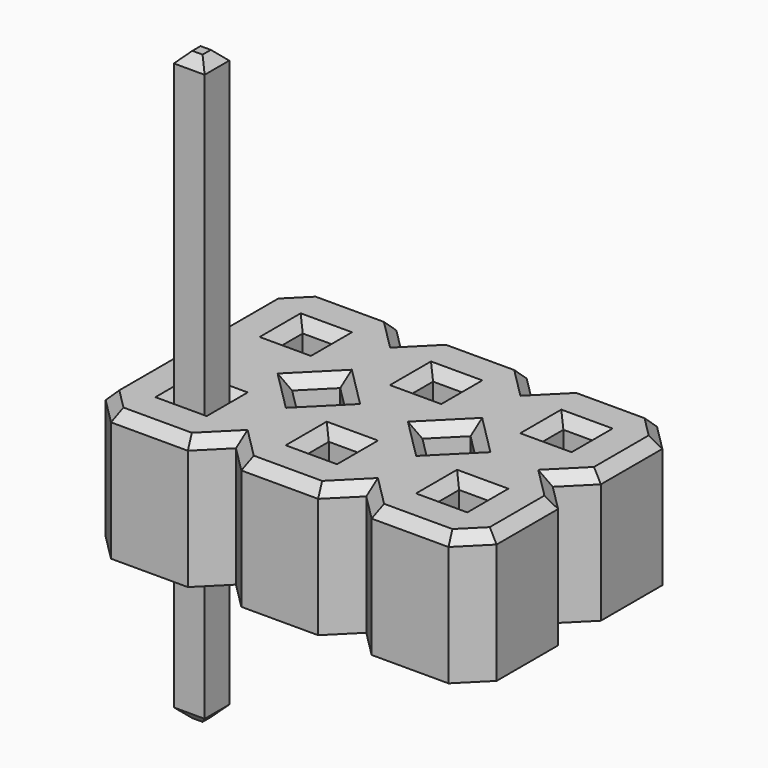
from build123d import *

# Parameters (mm, degrees)
F2_W      = 0.6
F2_H      = 0.6
F3_DEPTH  = 2.54
F0_W      = 0.6
F0_H      = 0.6
F4_DEPTH  = 11.45
F5_SIZE   = 0.2
F5_2_SIZE = 0.2
F5_3_SIZE = 0.2
F5_4_SIZE = 0.2
F5_5_SIZE = 0.2
F5_6_SIZE = 0.2
F6_SIZE   = 0.2


with BuildPart() as f3:
    # F2 (on offset) → F3 (new body)
    with BuildSketch(Plane.XY.offset(3)):
        Polygon((1.27, 0.7489051486), (0.7489051486, 1.27), (-0.7489051486, 1.27), (-1.27, 0.7489051486), (-1.27, -0.7489051486), (-0.7489051486, -1.27), (0.7489051486, -1.27), (1.27, -0.7489051486), align=None)
        Rectangle(F2_W, F2_H, mode=Mode.SUBTRACT)
        Polygon((-0.7489051486, 1.27), (0.7489051486, 1.27), (1.27, 1.7910948514), (1.27, 3.2889051486), (0.7489051486, 3.81), (-0.7489051486, 3.81), (-1.27, 3.2889051486), (-1.27, 1.7910948514), align=None)
        with Locations((0, 2.54)):
            Rectangle(F2_W, F2_H, mode=Mode.SUBTRACT)
        Polygon((1.7910948514, 1.27), (1.27, 0.7489051486), (1.27, -0.7489051486), (1.7910948514, -1.27), (3.2889051486, -1.27), (3.81, -0.7489051486), (3.81, 0.7489051486), (3.2889051486, 1.27), align=None)
        with Locations((2.54, 0)):
            Rectangle(F2_W, F2_H, mode=Mode.SUBTRACT)
        Polygon((1.27, 3.2889051486), (1.27, 1.7910948514), (1.7910948514, 1.27), (3.2889051486, 1.27), (3.81, 1.7910948514), (3.81, 3.2889051486), (3.2889051486, 3.81), (1.7910948514, 3.81), align=None)
        with Locations((2.54, 2.54)):
            Rectangle(F2_W, F2_H, mode=Mode.SUBTRACT)
        Polygon((4.3310948514, 1.27), (3.81, 0.7489051486), (3.81, -0.7489051486), (4.3310948514, -1.27), (5.8289051486, -1.27), (6.35, -0.7489051486), (6.35, 0.7489051486), (5.8289051486, 1.27), align=None)
        with Locations((5.08, 0)):
            Rectangle(F2_W, F2_H, mode=Mode.SUBTRACT)
        Polygon((3.81, 3.2889051486), (3.81, 1.7910948514), (4.3310948514, 1.27), (5.8289051486, 1.27), (6.35, 1.7910948514), (6.35, 3.2889051486), (5.8289051486, 3.81), (4.3310948514, 3.81), align=None)
        with Locations((5.08, 2.54)):
            Rectangle(F2_W, F2_H, mode=Mode.SUBTRACT)
    extrude(amount=F3_DEPTH)

    # F6
    f6_edges = [f3.edges().sort_by_distance(p)[0] for p in [
        (1.009453, 1.009453, 5.54),
        (1.009453, 1.530547, 5.54),
        (1.530547, 1.530547, 5.54),
        (1.530547, 1.009453, 5.54),
        (1.009453, 3.549453, 5.54),
        (0, 3.81, 5.54),
        (-1.009453, 3.549453, 5.54),
        (-1.27, 2.54, 5.54),
        (-1.009453, 1.530547, 5.54),
        (-1.009453, 1.009453, 5.54),
        (-1.27, 0, 5.54),
        (-1.009453, -1.009453, 5.54),
        (0, -1.27, 5.54),
        (1.009453, -1.009453, 5.54),
        (1.530547, -1.009453, 5.54),
        (2.54, -1.27, 5.54),
        (3.549453, -1.009453, 5.54),
        (4.070547, -1.009453, 5.54),
        (5.08, -1.27, 5.54),
        (6.089453, -1.009453, 5.54),
        (6.35, 0, 5.54),
        (6.089453, 1.009453, 5.54),
        (6.089453, 1.530547, 5.54),
        (6.35, 2.54, 5.54),
        (6.089453, 3.549453, 5.54),
        (5.08, 3.81, 5.54),
        (4.070547, 3.549453, 5.54),
        (3.549453, 3.549453, 5.54),
        (2.54, 3.81, 5.54),
        (1.530547, 3.549453, 5.54),
        (4.070547, 1.009453, 5.54),
        (3.549453, 1.009453, 5.54),
        (3.549453, 1.530547, 5.54),
        (4.070547, 1.530547, 5.54),
        (0.3, 0, 5.54),
        (0, -0.3, 5.54),
        (-0.3, 0, 5.54),
        (0, 0.3, 5.54),
        (-0.3, 2.54, 5.54),
        (0, 2.84, 5.54),
        (0.3, 2.54, 5.54),
        (0, 2.24, 5.54),
        (2.24, 0, 5.54),
        (2.54, 0.3, 5.54),
        (2.84, 0, 5.54),
        (2.54, -0.3, 5.54),
        (2.24, 2.54, 5.54),
        (2.54, 2.84, 5.54),
        (2.84, 2.54, 5.54),
        (2.54, 2.24, 5.54),
        (4.78, 0, 5.54),
        (5.08, 0.3, 5.54),
        (5.38, 0, 5.54),
        (5.08, -0.3, 5.54),
        (5.08, 2.24, 5.54),
        (4.78, 2.54, 5.54),
        (5.08, 2.84, 5.54),
        (5.38, 2.54, 5.54),
    ]]
    chamfer(f6_edges, length=F6_SIZE)


with BuildPart() as f4:
    # F0 (on Top) → F4 (new body)
    with BuildSketch(Plane.XY):
        Rectangle(F0_W, F0_H)
    extrude(amount=F4_DEPTH)

    # F5#2
    f5_2_edges = [f4.edges().sort_by_distance(p)[0] for p in [
        (0, -0.3, 11.45),
        (0.3, 0, 11.45),
        (0, 0.3, 11.45),
        (-0.3, 0, 11.45),
        (0, -0.3, 0),
        (0.3, 0, 0),
        (0, 0.3, 0),
        (-0.3, 0, 0),
    ]]
    chamfer(f5_2_edges, length=F5_2_SIZE)


with BuildPart() as f4b:
    # F0 (on Top) → F4, piece 2 (new body)
    with BuildSketch(Plane.XY):
        with Locations((0, 2.54)):
            Rectangle(F0_W, F0_H)
    extrude(amount=F4_DEPTH)

    # F5
    f5_edges = [f4b.edges().sort_by_distance(p)[0] for p in [
        (0.3, 2.54, 11.45),
        (0, 2.84, 11.45),
        (-0.3, 2.54, 11.45),
        (0, 2.24, 11.45),
        (0.3, 2.54, 0),
        (0, 2.84, 0),
        (-0.3, 2.54, 0),
        (0, 2.24, 0),
    ]]
    chamfer(f5_edges, length=F5_SIZE)


with BuildPart() as f4c:
    # F0 (on Top) → F4, piece 3 (new body)
    with BuildSketch(Plane.XY):
        with Locations((2.54, 0)):
            Rectangle(F0_W, F0_H)
    extrude(amount=F4_DEPTH)

    # F5#4
    f5_4_edges = [f4c.edges().sort_by_distance(p)[0] for p in [
        (2.84, 0, 11.45),
        (2.54, 0.3, 11.45),
        (2.24, 0, 11.45),
        (2.54, -0.3, 11.45),
        (2.84, 0, 0),
        (2.54, 0.3, 0),
        (2.24, 0, 0),
        (2.54, -0.3, 0),
    ]]
    chamfer(f5_4_edges, length=F5_4_SIZE)


with BuildPart() as f4d:
    # F0 (on Top) → F4, piece 4 (new body)
    with BuildSketch(Plane.XY):
        with Locations((2.54, 2.54)):
            Rectangle(F0_W, F0_H)
    extrude(amount=F4_DEPTH)

    # F5#3
    f5_3_edges = [f4d.edges().sort_by_distance(p)[0] for p in [
        (2.84, 2.54, 11.45),
        (2.54, 2.84, 11.45),
        (2.24, 2.54, 11.45),
        (2.54, 2.24, 11.45),
        (2.84, 2.54, 0),
        (2.54, 2.84, 0),
        (2.24, 2.54, 0),
        (2.54, 2.24, 0),
    ]]
    chamfer(f5_3_edges, length=F5_3_SIZE)


with BuildPart() as f4e:
    # F0 (on Top) → F4, piece 5 (new body)
    with BuildSketch(Plane.XY):
        with Locations((5.08, 0)):
            Rectangle(F0_W, F0_H)
    extrude(amount=F4_DEPTH)

    # F5#5
    f5_5_edges = [f4e.edges().sort_by_distance(p)[0] for p in [
        (5.38, 0, 11.45),
        (5.08, 0.3, 11.45),
        (4.78, 0, 11.45),
        (5.08, -0.3, 11.45),
        (5.38, 0, 0),
        (5.08, 0.3, 0),
        (4.78, 0, 0),
        (5.08, -0.3, 0),
    ]]
    chamfer(f5_5_edges, length=F5_5_SIZE)


with BuildPart() as f4f:
    # F0 (on Top) → F4, piece 6 (new body)
    with BuildSketch(Plane.XY):
        with Locations((5.08, 2.54)):
            Rectangle(F0_W, F0_H)
    extrude(amount=F4_DEPTH)

    # F5#6
    f5_6_edges = [f4f.edges().sort_by_distance(p)[0] for p in [
        (5.38, 2.54, 11.45),
        (5.08, 2.84, 11.45),
        (4.78, 2.54, 11.45),
        (5.08, 2.24, 11.45),
        (5.38, 2.54, 0),
        (5.08, 2.84, 0),
        (4.78, 2.54, 0),
        (5.08, 2.24, 0),
    ]]
    chamfer(f5_6_edges, length=F5_6_SIZE)


solid = Compound([f3.part, f4.part])
